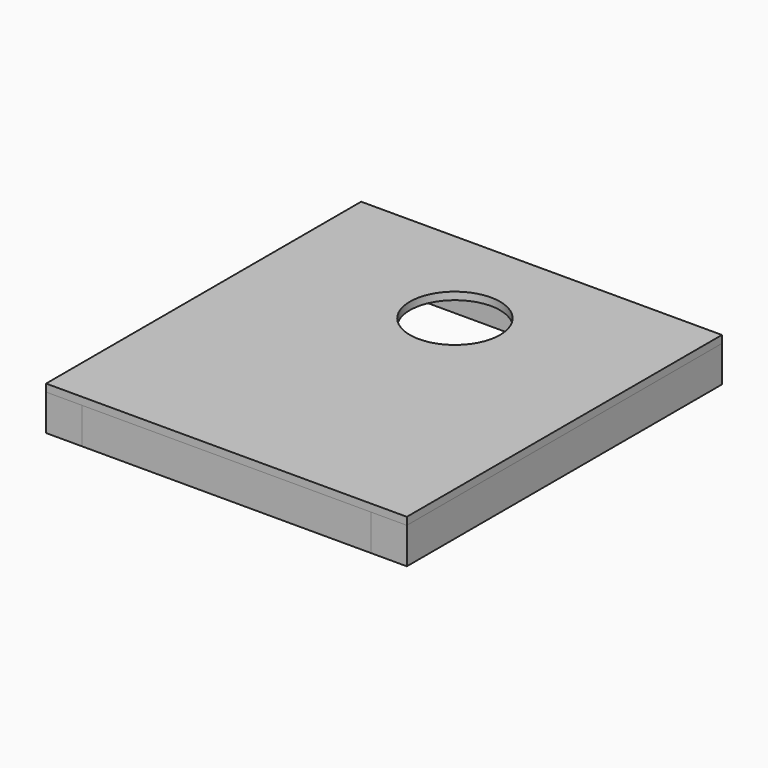
from build123d import *

# Parameters (mm, degrees)
F0_W     = 1200
F0_H     = 1310
F0_R     = 150
F1_DEPTH = 25
F3_W     = 960
F3_H     = 120
F4_DEPTH = 120
F5_DEPTH = 120
F6_DEPTH = 120


with BuildPart() as f1:
    # F0 (on Top) → F1 (new body)
    with BuildSketch(Plane.XY):
        with Locations((0, 655)):
            Rectangle(F0_W, F0_H)
        with Locations((0, 950)):
            Circle(F0_R, mode=Mode.SUBTRACT)
    extrude(amount=-F1_DEPTH)


with BuildPart() as f4:
    # F3 (on offset) → F4 (new body)
    with BuildSketch(Plane.XY.offset(-25)):
        with Locations((0, 1250)):
            Rectangle(F3_W, F3_H)
        with Locations((0, 60)):
            Rectangle(F3_W, F3_H)
    extrude(amount=-F4_DEPTH)


with BuildPart() as f5:
    # F3 (on offset) → F5 (new body)
    with BuildSketch(Plane.XY.offset(-25)):
        Polygon((-480, 1190), (-480, 1310), (-600, 1310), (-600, 1190), (-600, 120), (-600, 0), (-480, 0), (-480, 120), (-480, 600), (-480, 720), align=None)
        Polygon((600, 1190), (600, 1310), (480, 1310), (480, 1190), (480, 720), (480, 600), (480, 120), (480, 0), (600, 0), (600, 120), align=None)
    extrude(amount=-F5_DEPTH)


with BuildPart() as f6:
    # F3 (on offset) → F6 (new body)
    with BuildSketch(Plane.XY.offset(-25)):
        with Locations((0, 660)):
            Rectangle(F3_W, F3_H)
    extrude(amount=-F6_DEPTH)


solid = Compound([f1.part, f4.part, f5.part, f6.part])
